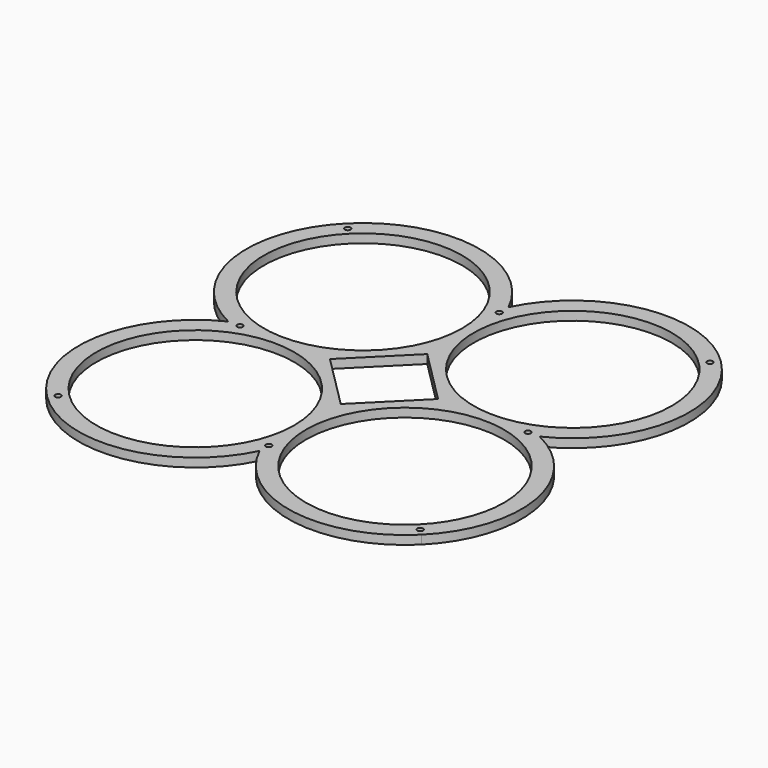
from build123d import *

# Parameters (mm, degrees)
F0_R     = 53.975
F1_DEPTH = 4.7625
F2_D     = 3.175
F2_DEPTH = 9.525


with BuildPart() as f1:
    # F0 (on Top) → F1 (new body)
    with BuildSketch(Plane.XY):
        with BuildLine():
            ThreePointArc((0, -84.829008), (46.583097, -119.764619), (102.051281, -102.051281))
            ThreePointArc((102.051281, -102.051281), (119.764619, -46.583097), (84.829008, 0))
            ThreePointArc((84.829008, 0), (119.764619, 46.583097), (102.051281, 102.051281))
            ThreePointArc((102.051281, 102.051281), (46.583097, 119.764619), (0, 84.829008))
            ThreePointArc((0, 84.829008), (-46.583097, 119.764619), (-102.051281, 102.051281))
            ThreePointArc((-102.051281, 102.051281), (-119.764619, 46.583097), (-84.829008, 0))
            ThreePointArc((-84.829008, 0), (-119.764619, -46.583097), (-102.051281, -102.051281))
            ThreePointArc((-102.051281, -102.051281), (-46.583097, -119.764619), (0, -84.829008))
        make_face()
        with BuildLine():
            ThreePointArc((-3.175, -57.15), (-36.494662, -107.016398), (-95.316089, -95.316089))
            ThreePointArc((-95.316089, -95.316089), (-77.805338, -7.283602), (-3.175, -57.15))
        make_face(mode=Mode.SUBTRACT)
        with BuildLine():
            ThreePointArc((95.316089, -95.316089), (7.283602, -36.494662), (111.125, -57.15))
            ThreePointArc((111.125, -57.15), (107.016398, -77.805338), (95.316089, -95.316089))
        make_face(mode=Mode.SUBTRACT)
        Polygon((-29.470992, 0), (0, 29.470992), (29.470992, 0), (0, -29.470992), align=None, mode=Mode.SUBTRACT)
        with Locations((-57.15, 57.15)):
            Circle(F0_R, mode=Mode.SUBTRACT)
        with Locations((57.15, 57.15)):
            Circle(F0_R, mode=Mode.SUBTRACT)
    extrude(amount=F1_DEPTH)

    # F2
    with Locations(Plane(origin=(0, 0, 0), x_dir=(1, 0, 0), z_dir=(0, 0, -1))):
        with Locations((-98.683685, -98.683685), (-78.479008, 0), (-98.683685, 98.683685), (0, 78.479008), (98.683685, 98.683685), (78.479008, 0), (98.683685, -98.683685), (0, -78.479008)):
            Hole(F2_D / 2, depth=F2_DEPTH)


solid = f1.part
